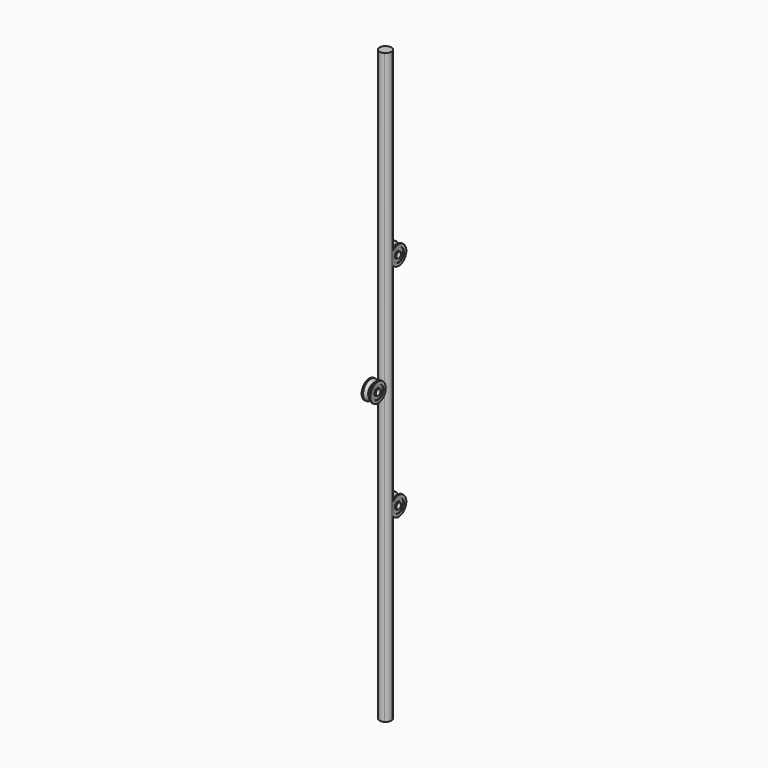
from build123d import *

# Parameters (mm, degrees)
F2_DEPTH = 200


with BuildPart() as f1:
    # F0 (on Top) → F1 (revolve)
    with BuildSketch(Plane.XY):
        with BuildLine():
            Line((2, 6.5), (0.176777, 4.676777))
            ThreePointArc((0.176777, 4.676777), (0.095671, 4.622584), (0, 4.603553))
            ThreePointArc((0, 4.603553), (-0.095671, 4.622584), (-0.176777, 4.676777))
            Line((-0.176777, 4.676777), (-2, 6.5))
            Line((-2, 6.5), (-3, 6.5))
            Line((-3, 6.5), (-3, 4.5))
            Line((-3, 4.5), (-2.5, 4.5))
            Line((-2.5, 4.5), (-2.5, 2.5))
            Line((-2.5, 2.5), (-3, 2.5))
            Line((-3, 2.5), (-3, 2))
            Line((-3, 2), (0, 2))
            Line((0, 2), (3, 2))
            Line((3, 2), (3, 2.5))
            Line((3, 2.5), (2.5, 2.5))
            Line((2.5, 2.5), (2.5, 4.5))
            Line((2.5, 4.5), (3, 4.5))
            Line((3, 4.5), (3, 6.5))
            Line((3, 6.5), (2, 6.5))
        make_face()
    revolve(axis=Axis((0, 0, 0), (1, 0, 0)))


with BuildPart() as f2:
    # F0 (on Top) → F2 (new body, symmetric)
    with BuildSketch(Plane.XY):
        with BuildLine():
            ThreePointArc((-2, 6.5), (0, 5.964102), (2, 6.5))
            ThreePointArc((2, 6.5), (3.464102, 7.964102), (4, 9.964102))
            ThreePointArc((4, 9.964102), (-2, 13.428203), (-2, 6.5))
        make_face()
    extrude(amount=F2_DEPTH, both=True)


with BuildPart() as f3_1:
    # F3: copy of F1
    add(f1.part.moved(Location((0, 17.4686, 75))))


with BuildPart() as f4_1:
    # F4: copy of F3_1
    add(f3_1.part.moved(Location((0, 0, -150))))


solid = Compound([f1.part, f2.part, f3_1.part, f4_1.part])
